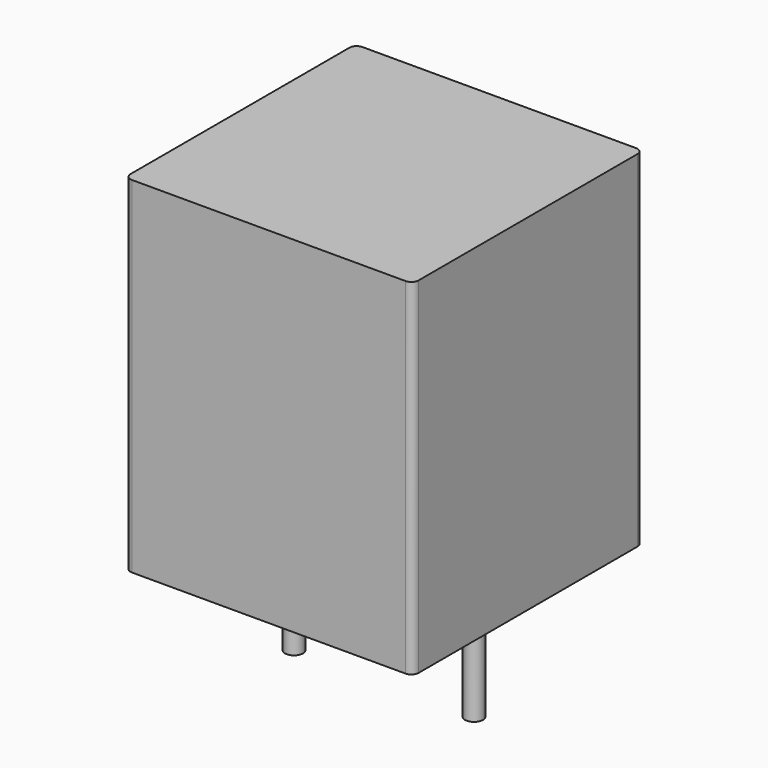
from build123d import *

# Parameters (mm, degrees)
SKETCH_W     = 8
SKETCH_H     = 8
PAD_DEPTH    = 9.6
FILLET_R     = 0.2
SKETCH001_R  = 0.25
PAD001_DEPTH = 3.5


with BuildPart() as fillet_body:
    # Sketch → Pad (new body)
    with BuildSketch(Plane.XY.offset(0.1)):
        with Locations((2.5, 0)):
            Rectangle(SKETCH_W, SKETCH_H)
    extrude(amount=PAD_DEPTH)

    # Fillet
    fillet_edges = [fillet_body.edges().sort_by_distance(p)[0] for p in [
        (6.5, -4, 4.9),
        (6.5, 4, 4.9),
        (-1.5, -4, 4.9),
        (-1.5, 4, 4.9),
    ]]
    fillet(fillet_edges, radius=FILLET_R)


with BuildPart() as obj1:
    # Sketch001 → Pad001 (new body)
    with BuildSketch(Plane.XY.offset(0.5)):
        Circle(SKETCH001_R)
        with Locations((5, 0)):
            Circle(SKETCH001_R)
    extrude(amount=-PAD001_DEPTH)

    # obj1: union Fillet body
    add(fillet_body.part)


solid = obj1.part
